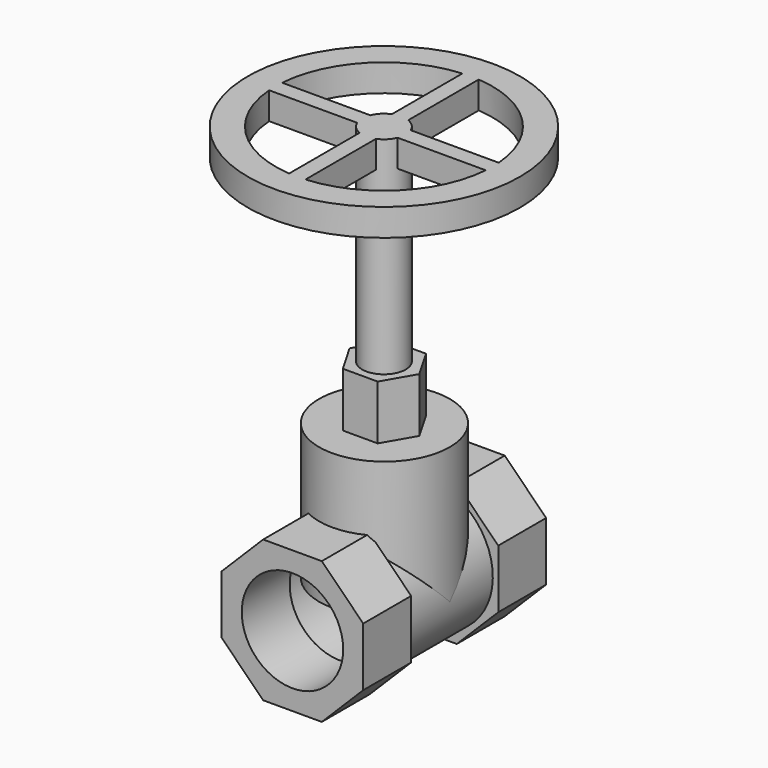
from build123d import *

# Parameters (mm, degrees)
F0_R      = 9.3155
F1_DEPTH  = 11
F2_R      = 12
F2_R_2    = 10.5
F3_DEPTH  = 20
F4_R      = 9.3155
F5_DEPTH  = 11
F6_R      = 12
F7_DEPTH  = 25
F9_DEPTH  = 10
F10_R     = 4
F11_DEPTH = 73
F12_W     = 18.0728212726
F12_H     = 3
F12_W_2   = 18.3906073943
F12_W_3   = 3
F12_H_2   = 17.3976836615
F12_H_3   = 17.163570568
F13_DEPTH = 5
F14_R     = 25
F14_R_2   = 19.9436706752
F15_DEPTH = 5


with BuildPart() as f1:
    # F0 (on Front) → F1 (new body)
    with BuildSketch(Plane.XZ):
        Polygon((13, -5.3847763109), (13, 5.3847763109), (5.3847763109, 13), (-5.3847763109, 13), (-13, 5.3847763109), (-13, -5.3847763109), (-5.3847763109, -13), (5.3847763109, -13), align=None)
        Circle(F0_R, mode=Mode.SUBTRACT)
    extrude(amount=F1_DEPTH)

    # F2 (on face) → F3 (join)
    with BuildSketch(Plane(origin=(0, 0, 0), x_dir=(-1, 0, 0), z_dir=(0, 1, 0))):
        Circle(F2_R)
        Circle(F2_R_2, mode=Mode.SUBTRACT)
    extrude(amount=F3_DEPTH)

    # F4 (on face) → F5 (join)
    with BuildSketch(Plane(origin=(0, 20, 0), x_dir=(-1, 0, 0), z_dir=(0, 1, 0))):
        Polygon((13, -5.3847763109), (13, 5.3847763109), (5.3847763109, 13), (-5.3847763109, 13), (-13, 5.3847763109), (-13, -5.3847763109), (-5.3847763109, -13), (5.3847763109, -13), align=None)
        Circle(F4_R, mode=Mode.SUBTRACT)
    extrude(amount=F5_DEPTH)

    # F6 (on Top) → F7 (join)
    with BuildSketch(Plane.XY):
        with Locations((0, 10.1140267726)):
            Circle(F6_R)
    extrude(amount=F7_DEPTH)

    # F8 (on face) → F9 (join)
    with BuildSketch(Plane.XY.offset(25)):
        Polygon((-3.2036065086, 4.5652175322), (3.2036065086, 4.5652175322), (6.4072130172, 10.1140267726), (3.2036065086, 15.6628360129), (-3.2036065086, 15.6628360129), (-6.4072130172, 10.1140267726), align=None)
    extrude(amount=F9_DEPTH)

    # F10 (on Top) → F11 (join)
    with BuildSketch(Plane.XY):
        with Locations((0, 10)):
            Circle(F10_R)
    extrude(amount=F11_DEPTH)

    # F12 (on face) → F13 (join)
    with BuildSketch(Plane.XY.offset(73)):
        with Locations((-10.9072600389, 10)):
            Rectangle(F12_W, F12_H)
        with Locations((10.748366978, 10)):
            Rectangle(F12_W_2, F12_H)
        with Locations((0, -1.2448288445)):
            Rectangle(F12_W_3, F12_H_2)
        with Locations((0, 21.3618853912)):
            Rectangle(F12_W_3, F12_H_3)
    extrude(amount=-F13_DEPTH)

    # F14 (on face) → F15 (join)
    with BuildSketch(Plane.XY.offset(73)):
        with Locations((0, 10)):
            Circle(F14_R)
        with Locations((0, 10)):
            Circle(F14_R_2, mode=Mode.SUBTRACT)
    extrude(amount=-F15_DEPTH)


solid = f1.part
